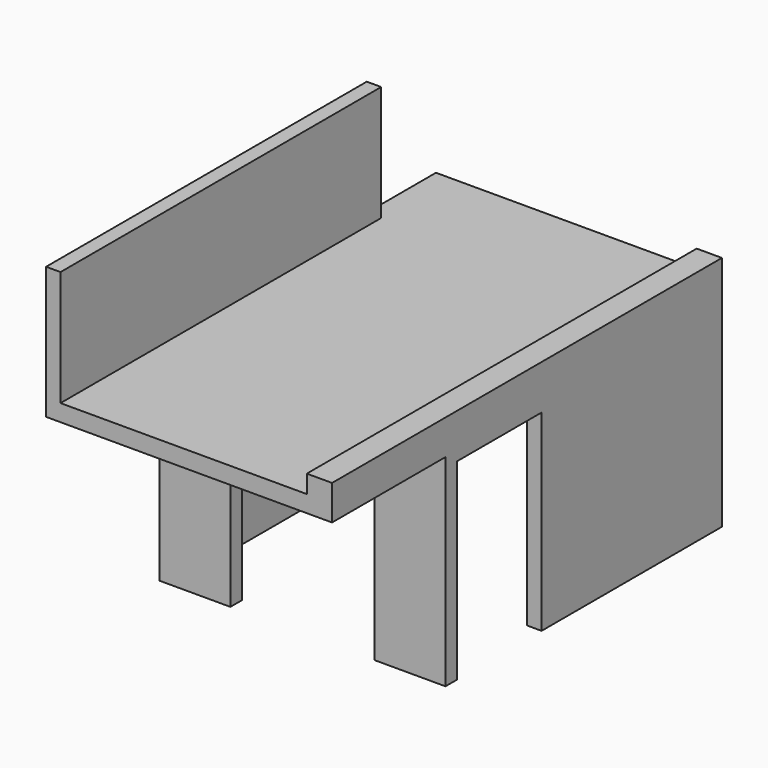
from build123d import *

# Parameters (mm, degrees)
F0_W      = 3835.4
F0_H      = 3652.52
F0_W_2    = 3530.6
F0_H_2    = 3347.72
F1_DEPTH  = 2133.6
F2_W      = 3835.4
F2_H      = 177.8
F3_DEPTH  = 3652.52
F4_W      = 3347.72
F4_H      = 2133.6
F5_DEPTH  = 152.4
F6_W      = 3835.4
F6_H      = 5151.12
F7_DEPTH  = 177.8
F9_DEPTH  = 812.8
F10_W     = 3500.12
F10_H     = 2311.4
F11_DEPTH = 127
F12_W     = 1524
F12_H     = 2032
F13_DEPTH = 152.4
F14_W     = 1117.6
F14_H     = 2032
F15_DEPTH = 152.4
F16_W     = 2743.2
F16_H     = 2133.6
F17_DEPTH = 152.4
F18_W     = 812.8
F18_H     = 2311.4
F19_DEPTH = 152.4
F20_W     = 4236.72
F20_H     = 1219.2
F21_DEPTH = 152.4
F23_DEPTH = 152.4
F25_DEPTH = 127
F26_W     = 266.7
F26_H     = 190.5
F27_DEPTH = 5151.12


with BuildPart() as f1:
    # F0 (on Top) → F1 (new body)
    with BuildSketch(Plane.XY):
        with Locations((1917.7, 1826.26)):
            Rectangle(F0_W, F0_H)
        with Locations((1917.7, 1826.26)):
            Rectangle(F0_W_2, F0_H_2, mode=Mode.SUBTRACT)
    extrude(amount=-F1_DEPTH)

    # F2 (on face) → F3 (join, through all)
    with BuildSketch(Plane.XZ):
        with Locations((1917.7, 88.9)):
            Rectangle(F2_W, F2_H)
    extrude(amount=-F3_DEPTH)

    # F4 (on face) → F5 (cut, through all)
    with BuildSketch(Plane(origin=(0, 0, 0), x_dir=(0, -1, 0), z_dir=(-1, 0, 0))):
        with Locations((-1826.26, -1066.8)):
            Rectangle(F4_W, F4_H)
    extrude(amount=-F5_DEPTH, mode=Mode.SUBTRACT)

    # F6 (on face) → F7 (join, through all)
    with BuildSketch(Plane.XY.offset(177.8)):
        with Locations((1917.7, 1076.96)):
            Rectangle(F6_W, F6_H)
    extrude(amount=-F7_DEPTH)

    # F8 (on face) → F9 (cut)
    with BuildSketch(Plane(origin=(0, 0, 0), x_dir=(0, -1, 0), z_dir=(-1, 0, 0))):
        Polygon((-3500.12, 177.8), (-3500.12, -2133.6), (0, -2133.6), (1498.6, -2133.6), (1498.6, 177.8), align=None)
        Polygon((-3500.12, 0), (-3500.12, -2133.6), (0, -2133.6), (1498.6, -2133.6), (1498.6, 177.8), (-3500.12, 177.8), align=None)
        Polygon((-3500.12, 0), (-3500.12, -2133.6), (0, -2133.6), (1498.6, -2133.6), (1498.6, 177.8), (-3500.12, 177.8), align=None)
    extrude(amount=-F9_DEPTH, mode=Mode.SUBTRACT)

    # F10 (on face) → F11 (join)
    with BuildSketch(Plane(origin=(812.8, 0, 0), x_dir=(0, -1, 0), z_dir=(-1, 0, 0))):
        with Locations((-1750.06, -977.9)):
            Rectangle(F10_W, F10_H)
    extrude(amount=-F11_DEPTH)

    # F12 (on face) → F13 (cut, through all)
    with BuildSketch(Plane.XZ):
        with Locations((2324.1, -1117.6)):
            Rectangle(F12_W, F12_H)
    extrude(amount=-F13_DEPTH, mode=Mode.SUBTRACT)

    # F14 (on face) → F15 (cut, through all)
    with BuildSketch(Plane.YZ.offset(3835.4)):
        with Locations((711.2, -1117.6)):
            Rectangle(F14_W, F14_H)
    extrude(amount=-F15_DEPTH, mode=Mode.SUBTRACT)

    # F16 (on face) → F17 (cut, through all)
    with BuildSketch(Plane.XZ.offset(-3500.12)):
        with Locations((2311.4, -1066.8)):
            Rectangle(F16_W, F16_H)
    extrude(amount=-F17_DEPTH, mode=Mode.SUBTRACT)

    # F18 (on face) → F19 (cut, through all)
    with BuildSketch(Plane.XZ.offset(-3500.12)):
        with Locations((406.4, -977.9)):
            Rectangle(F18_W, F18_H)
    extrude(amount=-F19_DEPTH, mode=Mode.SUBTRACT)

    # F20 (on face) → F21 (join)
    with BuildSketch(Plane(origin=(812.8, 0, 0), x_dir=(0, -1, 0), z_dir=(-1, 0, 0))):
        with Locations((-619.76, 787.4)):
            Rectangle(F20_W, F20_H)
    extrude(amount=-F21_DEPTH)

    # F22 (on face) → F23 (cut)
    with BuildSketch(Plane(origin=(812.8, 0, 0), x_dir=(0, -1, 0), z_dir=(-1, 0, 0))):
        Polygon((-3652.52, -2133.6), (-203.2, -2133.6), (-2738.12, 0), (-3652.52, 0), align=None)
    extrude(amount=-F23_DEPTH, mode=Mode.SUBTRACT)

    # F24 (on face) → F25 (join, through all)
    with BuildSketch(Plane(origin=(812.8, 0, 0), x_dir=(0, -1, 0), z_dir=(-1, 0, 0))):
        Polygon((-3500.12, 0), (-3652.52, 0), (-3652.52, -2133.6), (-3500.12, -2133.6), (-3500.12, -193.675), (-2738.12, -193.675), (-2738.12, -2133.6), (-203.2, -2133.6), (-2738.12, 0), align=None)
    extrude(amount=-F25_DEPTH)

    # F26 (on face) → F27 (join, through all)
    with BuildSketch(Plane.XZ.offset(1498.6)):
        with Locations((3702.05, 273.05)):
            Rectangle(F26_W, F26_H)
    extrude(amount=-F27_DEPTH)


solid = f1.part
